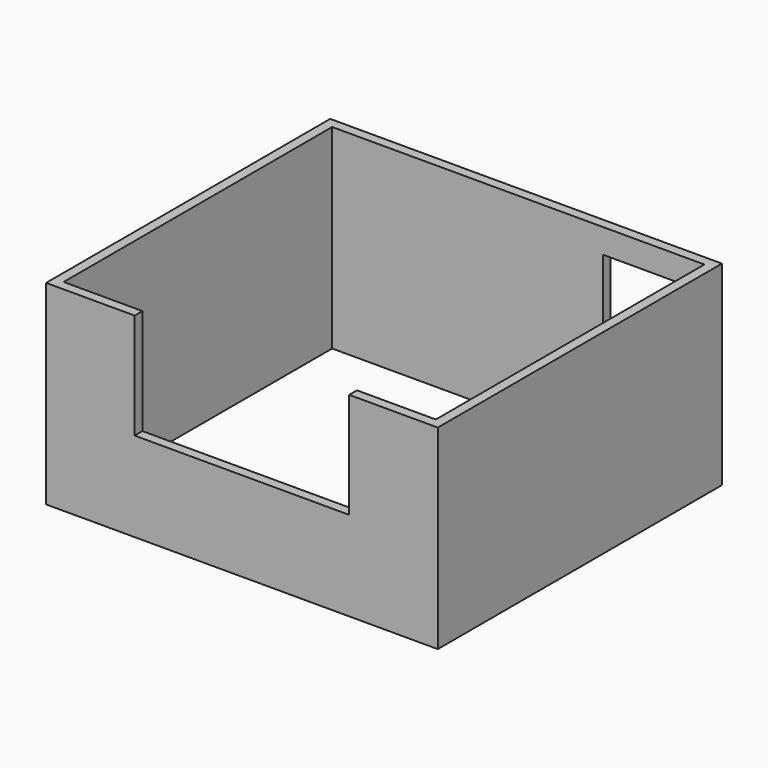
from build123d import *

# Parameters (mm, degrees)
F0_W     = 4820
F0_H     = 4370
F1_DEPTH = 2400
F2_W     = 4580
F2_H     = 4130
F3_DEPTH = 2400
F4_W     = 2640
F4_H     = 1300
F5_DEPTH = 120
F6_W     = 1100
F6_H     = 2100
F7_DEPTH = 120


with BuildPart() as f1:
    # F0 (on Top) → F1 (new body)
    with BuildSketch(Plane.XY):
        with Locations((-90, 0)):
            Rectangle(F0_W, F0_H)
    extrude(amount=F1_DEPTH)

    # F2 (on face) → F3 (cut, through all)
    with BuildSketch(Plane.XY.offset(2400)):
        with Locations((-90, 0)):
            Rectangle(F2_W, F2_H)
    extrude(amount=-F3_DEPTH, mode=Mode.SUBTRACT)

    # F4 (on face) → F5 (cut, through all)
    with BuildSketch(Plane.XZ.offset(2185)):
        with Locations((-90, 1750)):
            Rectangle(F4_W, F4_H)
    extrude(amount=-F5_DEPTH, mode=Mode.SUBTRACT)

    # F6 (on face) → F7 (cut, through all)
    with BuildSketch(Plane.XZ.offset(-2065)):
        with Locations((1500, 1050)):
            Rectangle(F6_W, F6_H)
    extrude(amount=-F7_DEPTH, mode=Mode.SUBTRACT)


solid = f1.part
